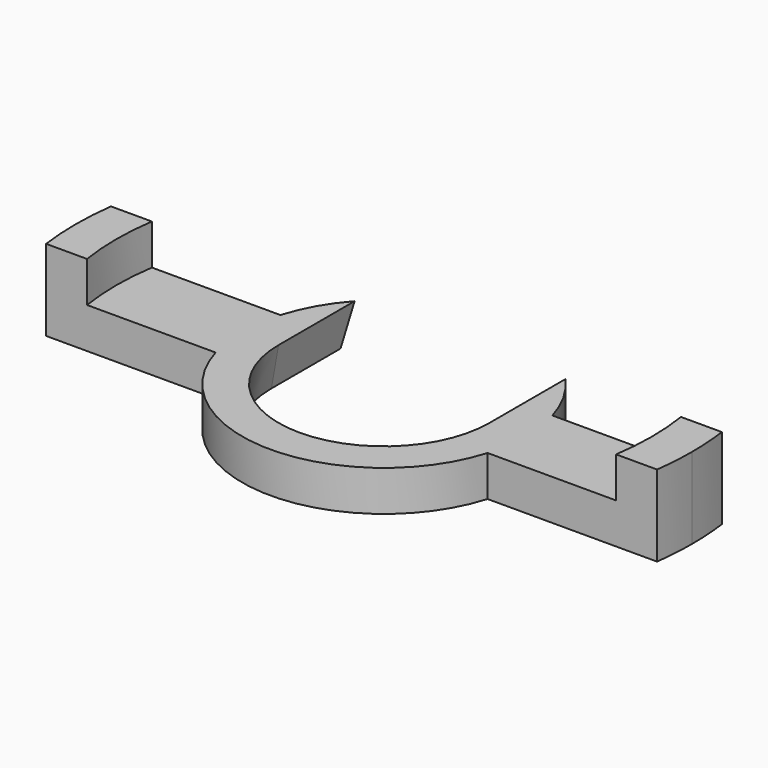
from build123d import *

# Parameters (mm, degrees)
F1_DEPTH = 12.7
F2_R     = 41.91
F3_DEPTH = 6.35
F5_DEPTH = 6.35
F5_TAPER = -10


with BuildPart() as f1:
    # F0 (on Top) → F1 (new body)
    with BuildSketch(Plane.XY):
        with BuildLine():
            Line((-21.2985474857, 6.35), (-47.8404128327, 6.35))
            ThreePointArc((-47.8404128327, 6.35), (-48.26, 0), (-47.8404128327, -6.35))
            Line((-47.8404128327, -6.35), (-21.2985474857, -6.35))
            ThreePointArc((-21.2985474857, -6.35), (-22.225, 0), (-21.2985474857, 6.35))
        make_face()
        with BuildLine():
            ThreePointArc((22.225, 0), (21.9921672746, 3.2086139633), (21.2985474857, 6.35))
            Line((21.2985474857, 6.35), (-21.2985474857, 6.35))
            ThreePointArc((-21.2985474857, 6.35), (-22.225, 0), (-21.2985474857, -6.35))
            Line((-21.2985474857, -6.35), (21.2985474857, -6.35))
            ThreePointArc((21.2985474857, -6.35), (21.9921672746, -3.2086139633), (22.225, 0))
        make_face()
        with BuildLine():
            ThreePointArc((47.8404128327, -6.35), (48.1549889591, -3.1819236867), (48.26, 0))
            ThreePointArc((48.26, 0), (48.1549889591, 3.1819236867), (47.8404128327, 6.35))
            Line((47.8404128327, 6.35), (21.2985474857, 6.35))
            ThreePointArc((21.2985474857, 6.35), (21.9921672746, 3.2086139633), (22.225, 0))
            ThreePointArc((22.225, 0), (21.9921672746, -3.2086139633), (21.2985474857, -6.35))
            Line((21.2985474857, -6.35), (47.8404128327, -6.35))
        make_face()
        with BuildLine():
            ThreePointArc((-21.2985474857, -6.35), (0, -22.225), (21.2985474857, -6.35))
            Line((21.2985474857, -6.35), (-21.2985474857, -6.35))
        make_face()
        with BuildLine():
            Line((-21.2985474857, 6.35), (21.2985474857, 6.35))
            ThreePointArc((21.2985474857, 6.35), (0, 22.225), (-21.2985474857, 6.35))
        make_face()
    extrude(amount=F1_DEPTH)

    # F2 (on face) → F3 (cut)
    with BuildSketch(Plane.XY.offset(12.7)):
        Circle(F2_R)
    extrude(amount=-F3_DEPTH, mode=Mode.SUBTRACT)

    # F4 (on face) → F5 (cut, through all)
    with BuildSketch(Plane.XY.offset(6.35)):
        with BuildLine():
            ThreePointArc((-16.51, 0), (0, 16.51), (16.51, 0))
            Line((16.51, 0), (16.51, 14.8785256326))
            ThreePointArc((16.51, 14.8785256326), (0, 22.225), (-16.51, 14.8785256326))
            Line((-16.51, 14.8785256326), (-16.51, 0))
        make_face()
        with BuildLine():
            ThreePointArc((-16.51, 0), (0, -16.51), (16.51, 0))
            ThreePointArc((16.51, 0), (0, 16.51), (-16.51, 0))
        make_face()
    extrude(amount=-F5_DEPTH, taper=F5_TAPER, mode=Mode.SUBTRACT)


solid = f1.part
